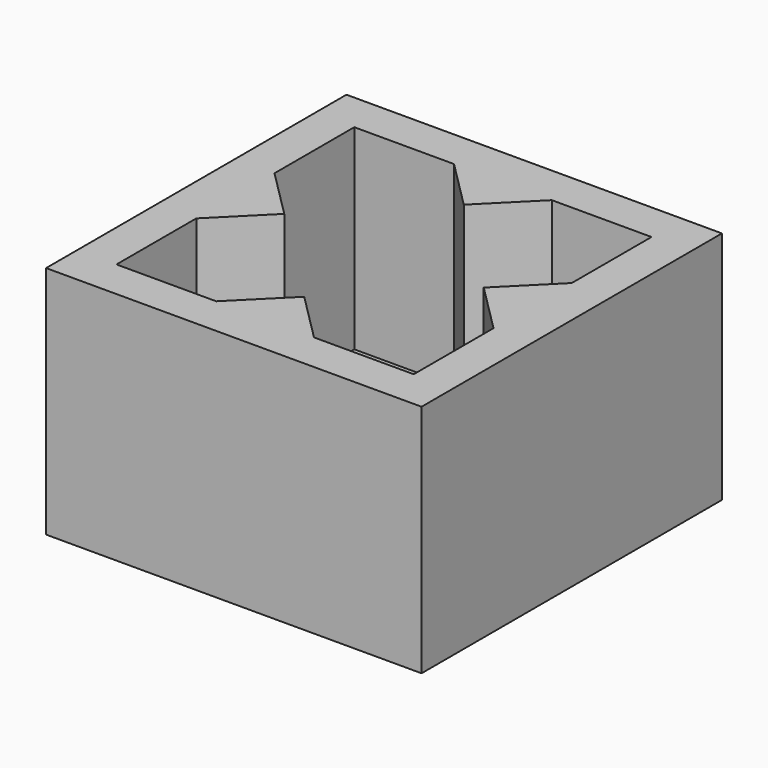
from build123d import *

# Parameters (mm, degrees)
F1_DEPTH = 10
F2_T     = 2
F3_DEPTH = 10


with BuildPart() as f1:
    # F0 (on Top) → F1 (new body)
    with BuildSketch(Plane.XY):
        Polygon((-4.5411753677, 10.567646683), (-9.6411753677, 10.567646683), (-9.6411753677, 5.467646683), (-7.1411753677, 2.967646683), (-9.6411753677, 0.467646683), (-9.6411753677, -4.632353317), (-4.5411753677, -4.632353317), (-2.0411753677, -2.132353317), (0.4588246323, -4.632353317), (5.5588246323, -4.632353317), (5.5588246323, 0.467646683), (3.0588246323, 2.967646683), (5.5588246323, 5.467646683), (5.5588246323, 10.567646683), (0.4588246323, 10.567646683), (-2.0411753677, 8.067646683), align=None)
        Polygon((-7.1411753677, 2.967646683), (-9.6411753677, 5.467646683), (-9.6411753677, 0.467646683), align=None)
        Polygon((-2.0411753677, -2.132353317), (-4.5411753677, -4.632353317), (0.4588246323, -4.632353317), align=None)
        Polygon((5.5588246323, 0.467646683), (5.5588246323, 5.467646683), (3.0588246323, 2.967646683), align=None)
        Polygon((0.4588246323, 10.567646683), (-4.5411753677, 10.567646683), (-2.0411753677, 8.067646683), align=None)
    extrude(amount=F1_DEPTH)

    # F2
    f2_openings = [f1.faces().sort_by_distance(p)[0] for p in [
        (-2.041175, 2.967647, 10),
    ]]
    offset(amount=F2_T, openings=f2_openings, kind=Kind.INTERSECTION)

    # F0 (on Top) → F3 (join)
    with BuildSketch(Plane.XY):
        Polygon((0.4588246323, 10.567646683), (-4.5411753677, 10.567646683), (-2.0411753677, 8.067646683), align=None)
        Polygon((5.5588246323, 0.467646683), (5.5588246323, 5.467646683), (3.0588246323, 2.967646683), align=None)
        Polygon((-7.1411753677, 2.967646683), (-9.6411753677, 5.467646683), (-9.6411753677, 0.467646683), align=None)
        Polygon((-2.0411753677, -2.132353317), (-4.5411753677, -4.632353317), (0.4588246323, -4.632353317), align=None)
    extrude(amount=F3_DEPTH)


solid = f1.part
